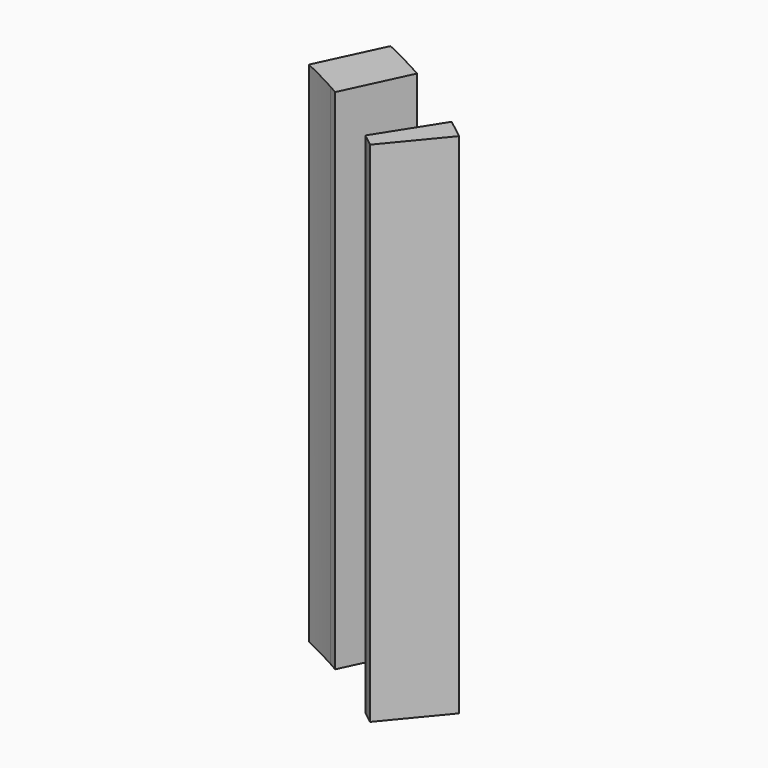
from build123d import *

# Parameters (mm, degrees)
F1_DEPTH = 25


with BuildPart() as f1:
    # F0 (on Top) → F1 (new body)
    with BuildSketch(Plane.XY):
        with BuildLine():
            Line((18.839471, 23.557394), (21.065249, 26.247898))
            ThreePointArc((21.065249, 26.247898), (20.582876, 26.627845), (20.093651, 26.998927))
            Line((20.093651, 26.998927), (18.217083, 24.04193))
            ThreePointArc((18.217083, 24.04193), (18.529861, 23.801696), (18.839471, 23.557394))
        make_face()
        with BuildLine():
            Line((15.060183, 26.135558), (16.551344, 29.304435))
            ThreePointArc((16.551344, 29.304435), (16.333208, 29.426573), (16.114171, 29.547087))
            Line((16.114171, 29.547087), (14.624667, 26.381729))
            ThreePointArc((14.624667, 26.381729), (14.842935, 26.259546), (15.060183, 26.135558))
        make_face()
        with BuildLine():
            Line((14.624667, 26.381729), (16.114171, 29.547087))
            ThreePointArc((16.114171, 29.547087), (15.228736, 30.013039), (14.329842, 30.452463))
            Line((14.329842, 30.452463), (12.843274, 27.293347))
            ThreePointArc((12.843274, 27.293347), (13.741532, 26.852315), (14.624667, 26.381729))
        make_face()
    extrude(amount=F1_DEPTH)


solid = f1.part
